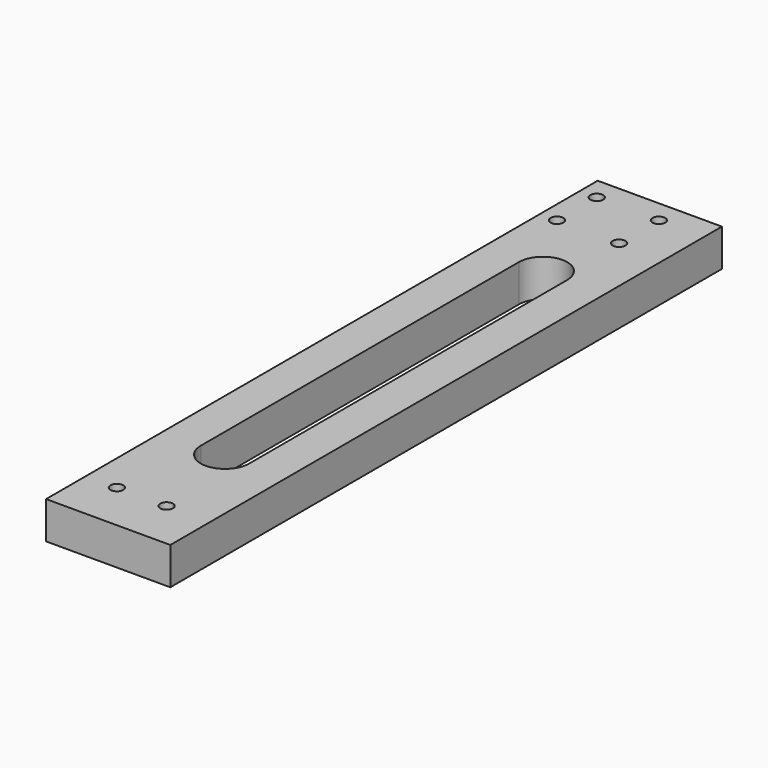
from build123d import *

# Parameters (mm, degrees)
F0_W     = 63.5
F0_H     = 19.05
F1_DEPTH = 176.2125
F3_D     = 6.5278
F5_DEPTH = 19.051


with BuildPart() as f1:
    # F0 (on Front) → F1 (new body, symmetric)
    with BuildSketch(Plane.XZ):
        Rectangle(F0_W, F0_H)
    extrude(amount=F1_DEPTH, both=True)

    # F3 (through all)
    with Locations(Plane.XY.offset(9.525)):
        with Locations((8.7006882876, 164.7427699804), (8.7006882876, 139.3427699804), (-23.0493117124, 139.3427699804), (-23.0493117124, 164.7427699804), (-15.875, -150.8125), (9.525, -150.8125)):
            Hole(F3_D / 2)

    # F4 (on face) → F5 (cut, through all)
    with BuildSketch(Plane.XY.offset(9.525)):
        with BuildLine():
            Line((-12.3660704418, 101.6), (-12.3660704418, -101.6))
            ThreePointArc((-12.3660704418, -101.6), (0, -113.9660704418), (12.3660704418, -101.6))
            Line((12.3660704418, -101.6), (12.3660704418, 101.6))
            ThreePointArc((12.3660704418, 101.6), (0, 113.9660704418), (-12.3660704418, 101.6))
        make_face()
    extrude(amount=-F5_DEPTH, mode=Mode.SUBTRACT)


solid = f1.part
